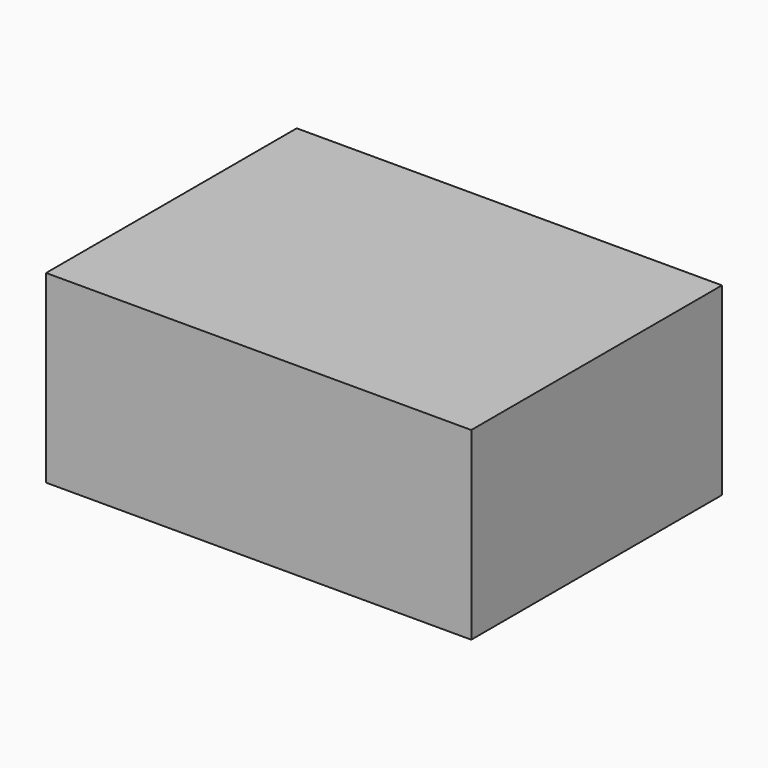
from build123d import *

# Parameters (mm, degrees)
F0_W     = 965.2
F0_H     = 711.2
F1_DEPTH = 12.7
F2_W     = 965.2
F2_H     = 711.2
F2_W_2   = 939.8
F2_H_2   = 685.8
F3_DEPTH = 406.4


with BuildPart() as f1:
    # F0 (on Top) → F1 (new body)
    with BuildSketch(Plane.XY):
        with Locations((482.6, -355.6)):
            Rectangle(F0_W, F0_H)
    extrude(amount=-F1_DEPTH)

    # F2 (on face) → F3 (join)
    with BuildSketch(Plane(origin=(0, 0, -12.7), x_dir=(1, 0, 0), z_dir=(0, 0, -1))):
        with Locations((482.6, 355.6)):
            Rectangle(F2_W, F2_H)
        with Locations((482.6, 355.6)):
            Rectangle(F2_W_2, F2_H_2, mode=Mode.SUBTRACT)
    extrude(amount=F3_DEPTH)


solid = f1.part
